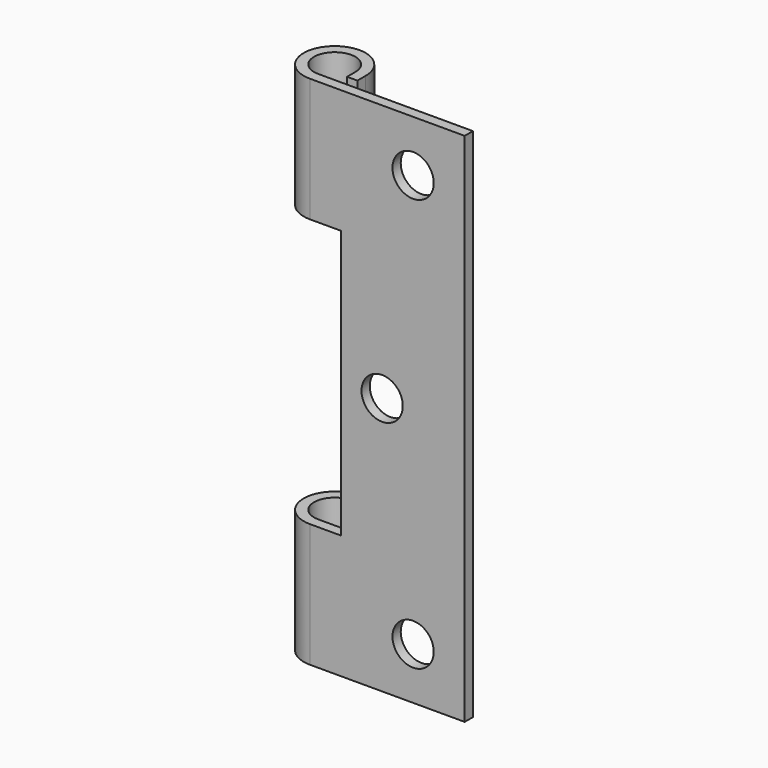
from build123d import *

# Parameters (mm, degrees)
F1_DEPTH = 50
F3_D     = 4
F3_DEPTH = 10
F2_W     = 8
F2_H     = 26
F4_DEPTH = 25


with BuildPart() as f1:
    # F0 (on Top) → F1 (new body)
    with BuildSketch(Plane.XY):
        with BuildLine():
            Line((0, 0), (15, 0))
            Line((15, 0), (15, 1))
            Line((15, 1), (0, 1))
            ThreePointArc((0, 1), (-1.414214, 4.414214), (2, 3))
            Line((2, 3), (2, 2))
            Line((2, 2), (3, 2))
            Line((3, 2), (3, 3))
            ThreePointArc((3, 3), (-2.12132, 5.12132), (0, 0))
        make_face()
    extrude(amount=F1_DEPTH)

    # F3
    with Locations(Plane.XZ):
        with Locations((10, 45), (7, 25), (10, 5)):
            Hole(F3_D / 2, depth=F3_DEPTH)

    # F2 (on Front) → F4 (cut)
    with BuildSketch(Plane.XZ):
        with Locations((-1, 25)):
            Rectangle(F2_W, F2_H)
    extrude(amount=-F4_DEPTH, mode=Mode.SUBTRACT)


solid = f1.part
